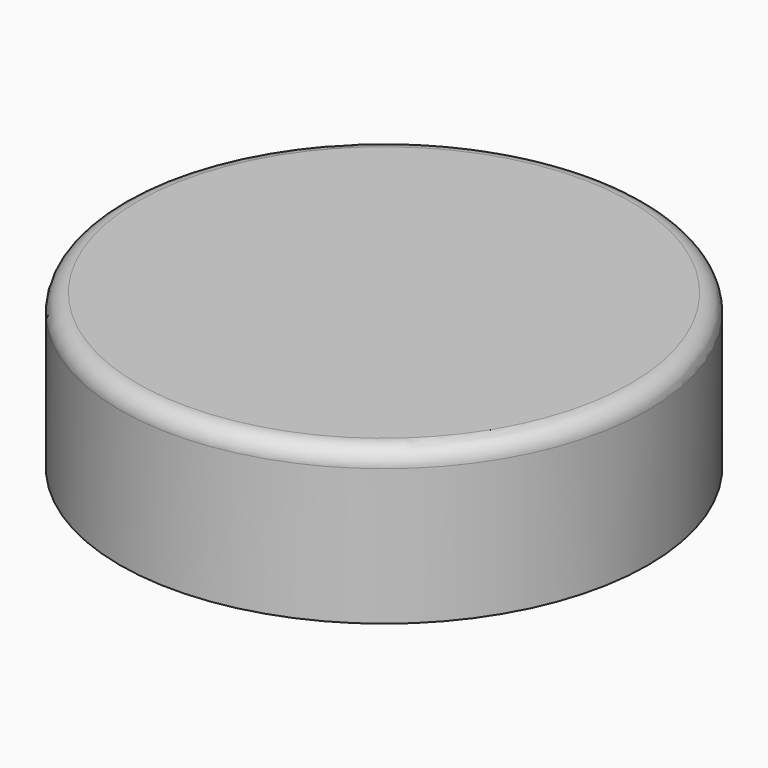
from build123d import *


with BuildPart() as f1:
    # F0 (on Front) → F1 (revolve)
    with BuildSketch(Plane.XZ):
        with BuildLine():
            Line((-38.1, -11.1125), (-31.75, -11.1125))
            Line((-31.75, -11.1125), (-31.75, -9.9695))
            ThreePointArc((-31.75, -9.9695), (-15.907476, -8.446078), (0, -7.937578))
            Line((0, -7.937578), (0, 11.1125))
            Line((0, 11.1125), (-35.56, 11.1125))
            ThreePointArc((-35.56, 11.1125), (-37.356051, 10.368551), (-38.1, 8.5725))
            Line((-38.1, 8.5725), (-38.1, -11.1125))
        make_face()
    revolve(axis=Axis((0, 0, -5.246675), (0, 0, -1)))


solid = f1.part
